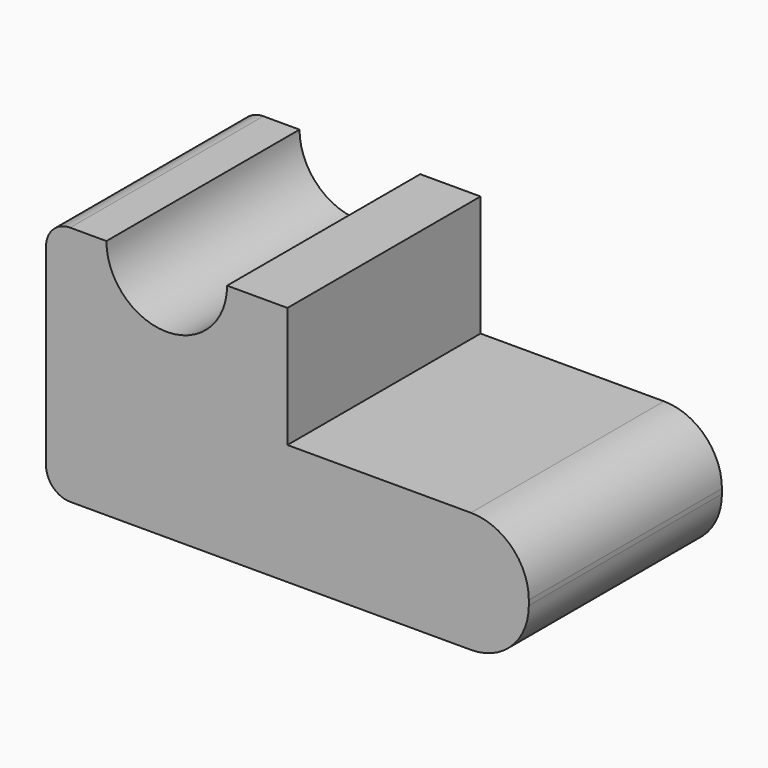
from build123d import *

# Parameters (mm, degrees)
F1_DEPTH = 50


with BuildPart() as f1:
    # F0 (on Front) → F1 (new body)
    with BuildSketch(Plane.XZ):
        with BuildLine():
            ThreePointArc((-40.646493, 21.114621), (-44.182027, 19.650155), (-45.646493, 16.114621))
            Line((-45.646493, 16.114621), (-45.646493, -23.885379))
            ThreePointArc((-45.646493, -23.885379), (-44.182027, -27.420913), (-40.646493, -28.885379))
            Line((-40.646493, -28.885379), (42.353507, -28.885379))
            ThreePointArc((42.353507, -28.885379), (50.838788, -25.37066), (54.353507, -16.885379))
            Line((54.353507, -16.885379), (54.353507, -15.885379))
            ThreePointArc((54.353507, -15.885379), (50.838788, -7.400098), (42.353507, -3.885379))
            Line((42.353507, -3.885379), (4.353507, -3.885379))
            Line((4.353507, -3.885379), (4.353507, 21.114621))
            Line((4.353507, 21.114621), (-8.146493, 21.114621))
            ThreePointArc((-8.146493, 21.114621), (-20.646493, 8.614621), (-33.146493, 21.114621))
            Line((-33.146493, 21.114621), (-40.646493, 21.114621))
        make_face()
    extrude(amount=F1_DEPTH)


solid = f1.part
